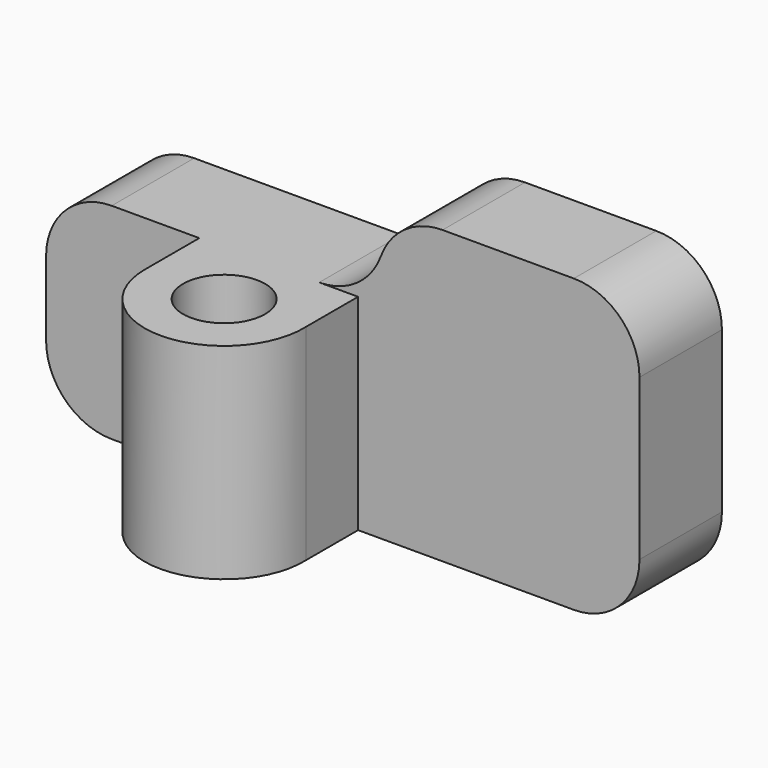
from build123d import *

# Parameters (mm, degrees)
F1_DEPTH      = 56.4388
F2_W          = 64.008
F2_H          = 16.6878
F3_DEPTH      = 25.4
F3_DEPTH_BACK = 58.166
F4_R          = 12.7
F6_DEPTH      = 19.939
F7_R          = 7.9375
F8_DEPTH      = 39.751


with BuildPart() as f1:
    # F0 (on Top) → F1 (new body)
    with BuildSketch(Plane.XY):
        with BuildLine():
            Line((0, 19.939), (0, 0))
            Line((0, 0), (29.6418, 0))
            Line((29.6418, 0), (29.6418, -13.208))
            ThreePointArc((29.6418, -13.208), (45.3057061406, -28.5721314673), (60.36432694, -12.6142985648))
            Line((60.36432694, -12.6142985648), (60.36432694, 0))
            Line((60.36432694, 0), (114.808, 0))
            Line((114.808, 0), (114.808, 19.939))
            Line((114.808, 19.939), (0, 19.939))
        make_face()
    extrude(amount=F1_DEPTH)

    # F2 (on Front) → F3 (cut, two sides)
    with BuildSketch(Plane.XZ) as f3_sk:
        with Locations((32.004, 48.0949)):
            Rectangle(F2_W, F2_H)
    extrude(amount=-F3_DEPTH, mode=Mode.SUBTRACT)
    extrude(f3_sk.sketch, amount=F3_DEPTH_BACK, mode=Mode.SUBTRACT)

    # F4
    f4_edges = [f1.edges().sort_by_distance(p)[0] for p in [
        (114.808, 9.9695, 56.4388),
        (114.808, 9.9695, 0),
        (64.008, 9.9695, 56.4388),
        (0, 9.9695, 39.751),
        (0, 9.9695, 0),
    ]]
    fillet(f4_edges, radius=F4_R)

    # F5 (on Front) → F6 (join, through all)
    with BuildSketch(Plane.XZ):
        with BuildLine():
            Line((60.36432694, 39.751), (60.3758, 39.751))
            Line((60.3758, 39.751), (64.008, 39.751))
            Line((64.008, 39.751), (64.008, 43.7388))
            ThreePointArc((64.008, 43.7388), (64.2020932514, 45.9506536109), (64.7784403774, 48.0949))
            ThreePointArc((64.7784403774, 48.0949), (60.1278755342, 42.0439718459), (52.8488807547, 39.751))
            Line((52.8488807547, 39.751), (60.36432694, 39.751))
        make_face()
    extrude(amount=-F6_DEPTH)

    # F7 (on face) → F8 (cut, through all)
    with BuildSketch(Plane.XY.offset(39.751)):
        with Locations((45.0088, -13.208)):
            Circle(F7_R)
    extrude(amount=-F8_DEPTH, mode=Mode.SUBTRACT)


solid = f1.part
